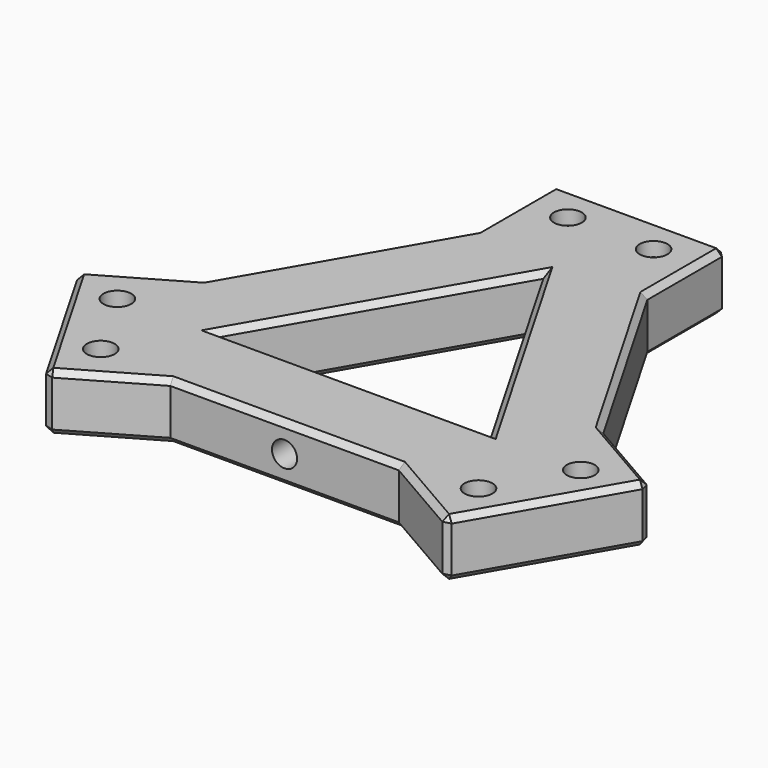
from build123d import *

# Parameters (mm, degrees)
F1_DEPTH       = 20
F2_SIZE        = 20
F3_W           = 60
F3_H           = 34.6410161514
F4_DEPTH       = 20
F5_SIZE        = 2
F7_D           = 5.5
F7_CBORE_D     = 9.75
F7_CBORE_DEPTH = 5
F9_D           = 8.8
F9_DEPTH       = 51.35
F9_TIP         = 2.6437867237


with BuildPart() as f1:
    # F0 (on Top) → F1 (new body)
    with BuildSketch(Plane.XY):
        Polygon((0, 115.4700538379), (-100, -57.735026919), (100, -57.735026919), align=None)
        Polygon((-48.0384757729, -27.735026919), (0, 55.4700538379), (48.0384757729, -27.735026919), align=None, mode=Mode.SUBTRACT)
    extrude(amount=F1_DEPTH)

    # F2
    f2_edges = [f1.edges().sort_by_distance(p)[0] for p in [
        (-100, -57.735027, 10),
        (100, -57.735027, 10),
        (0, 115.470054, 10),
    ]]
    chamfer(f2_edges, length=F2_SIZE)

    # F3 (on face) → F4 (join, through all)
    with BuildSketch(Plane(origin=(0, 0, 0), x_dir=(1, 0, 0), z_dir=(0, 0, -1))):
        with Locations((0, -80.8290376865)):
            Rectangle(F3_W, F3_H)
        Polygon((70, 5.7735026919), (100, 23.0940107676), (70, 75.0555349947), (40, 57.735026919), align=None)
        Polygon((-40, 57.735026919), (-70, 75.0555349947), (-100, 23.0940107676), (-70, 5.7735026919), align=None)
    extrude(amount=-F4_DEPTH)

    # F5
    f5_edges = [f1.edges().sort_by_distance(p)[0] for p in [
        (85, -49.074773, 20),
        (85, -14.433757, 20),
        (50, 28.867513, 20),
        (30, 80.829038, 20),
        (0, 98.149546, 20),
        (-30, 80.829038, 20),
        (-50, 28.867513, 20),
        (-85, -14.433757, 20),
        (-85, -49.074773, 20),
        (-55, -66.395281, 20),
        (0, -57.735027, 20),
        (55, -66.395281, 20),
        (-24.019238, 13.867513, 20),
        (24.019238, 13.867513, 20),
        (0, -27.735027, 20),
        (85, -49.074773, 0),
        (85, -14.433757, 0),
        (50, 28.867513, 0),
        (30, 80.829038, 0),
        (0, 98.149546, 0),
        (-30, 80.829038, 0),
        (-50, 28.867513, 0),
        (-85, -14.433757, 0),
        (-85, -49.074773, 0),
        (-55, -66.395281, 0),
        (0, -57.735027, 0),
        (55, -66.395281, 0),
        (-24.019238, 13.867513, 0),
        (24.019238, 13.867513, 0),
        (0, -27.735027, 0),
        (100, -23.094011, 10),
        (70, -75.055535, 10),
        (30, 98.149546, 10),
        (-30, 98.149546, 10),
        (-100, -23.094011, 10),
        (-70, -75.055535, 10),
    ]]
    chamfer(f5_edges, length=F5_SIZE)

    # F7 (through all)
    with Locations(Plane.XY.offset(20)):
        with Locations((-66.1121593217, -55.4903810568), (-81.1121593217, -29.5096189432), (-15, 85), (15, 85), (81.1121593217, -29.5096189432), (66.1121593217, -55.4903810568)):
            CounterBoreHole(F7_D / 2, F7_CBORE_D / 2, F7_CBORE_DEPTH)

    # F9
    with Locations(Plane.XZ.offset(57.735026919)):
        with Locations((0, 10)):
            Hole(F9_D / 2, depth=F9_DEPTH)
            with Locations((0, 0, -(F9_DEPTH + F9_TIP / 2))):  # 118° drill point
                Cone(0, F9_D / 2, F9_TIP, mode=Mode.SUBTRACT)


solid = f1.part
